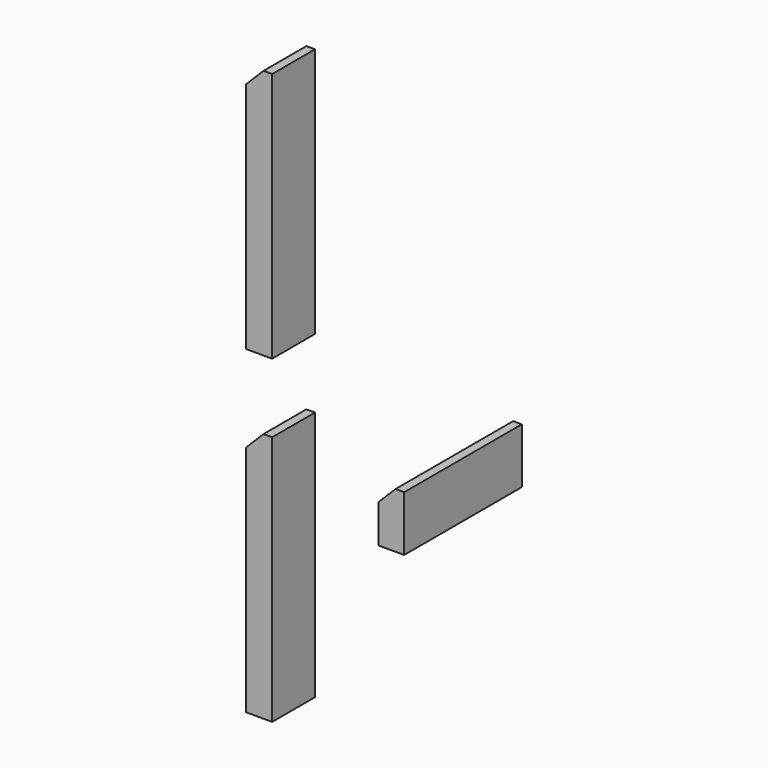
from build123d import *

# Parameters (mm, degrees)
BOX_W           = 3
BOX_H           = 6.2
BOX_DEPTH       = 29
CHAMFER005_SIZE = 2
BOX001_W        = 3
BOX001_H        = 6.2
BOX001_DEPTH    = 29
CHAMFER_SIZE    = 2
BOX002_W        = 3
BOX002_H        = 17
BOX002_DEPTH    = 6.4
CHAMFER006_SIZE = 2


with BuildPart() as chamfer005:
    # Box → Box (new body)
    with BuildSketch(Plane(origin=(8, -8.1, 14), x_dir=(1, 0, 0), z_dir=(0, 0, 1))):
        with Locations((1.5, 3.1)):
            Rectangle(BOX_W, BOX_H)
    extrude(amount=BOX_DEPTH)

    # Chamfer005
    chamfer005_edges = [chamfer005.edges().sort_by_distance(p)[0] for p in [
        (8, -5, 43),
    ]]
    chamfer(chamfer005_edges, length=CHAMFER005_SIZE)


with BuildPart() as chamfer_body:
    # Box001 → Box001 (new body)
    with BuildSketch(Plane(origin=(8, -8.1, 51), x_dir=(1, 0, 0), z_dir=(0, 0, 1))):
        with Locations((1.5, 3.1)):
            Rectangle(BOX001_W, BOX001_H)
    extrude(amount=BOX001_DEPTH)

    # Chamfer
    chamfer_edges = [chamfer_body.edges().sort_by_distance(p)[0] for p in [
        (8, -5, 80),
    ]]
    chamfer(chamfer_edges, length=CHAMFER_SIZE)


with BuildPart() as fusion:
    # Box002 → Box002 (new body)
    with BuildSketch(Plane(origin=(8, 11, 23.24), x_dir=(1, 0, 0), z_dir=(0, 0, 1))):
        with Locations((1.5, 8.5)):
            Rectangle(BOX002_W, BOX002_H)
    extrude(amount=BOX002_DEPTH)

    # Chamfer006
    chamfer006_edges = [fusion.edges().sort_by_distance(p)[0] for p in [
        (8, 19.5, 29.64),
    ]]
    chamfer(chamfer006_edges, length=CHAMFER006_SIZE)

    # Fusion: union Chamfer005, Chamfer body
    add(chamfer005.part)
    add(chamfer_body.part)


solid = fusion.part
